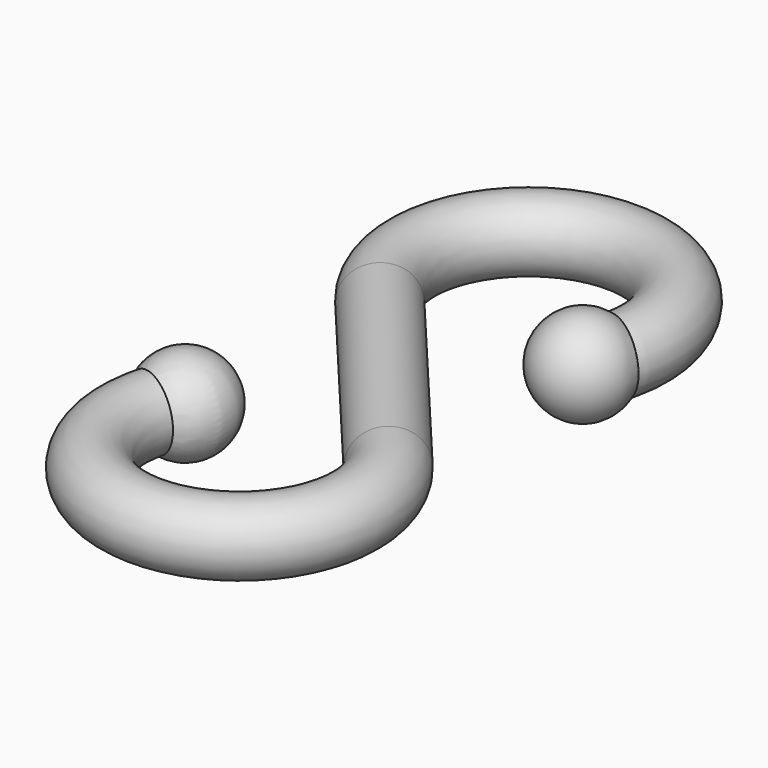
from build123d import *

# Parameters (mm, degrees)
F2_R = 3


with BuildPart() as f3:
    # F3: sweep along a path in F0
    with BuildLine(Plane.XY) as f3_path:
        ThreePointArc((8.6602540378, 10.5572382686), (-0.8715574275, 25.5191852495), (-7.6604444312, 9.1293621717))
        Line((-7.6604444312, 9.1293621717), (0, 0))
        Line((0, 0), (7.6604444312, -9.1293621717))
        ThreePointArc((7.6604444312, -9.1293621717), (0.8715574275, -25.5191852495), (-8.6602540378, -10.5572382686))
    # F2 (on line) → F3 (sweep)
    with BuildSketch(Plane(origin=(6.7364817767, 11.6679287015, 0), x_dir=(-0.8660254038, 0.5, 0), z_dir=(0.5, 0.8660254038, 0))):
        with Locations((-2.2213808657, 0)):
            Circle(F2_R)
    sweep(path=f3_path.line)

    # F4 (on face) → F5 (revolve)
    with BuildSketch(Plane(origin=(6.7364817767, 11.6679287015, 0), x_dir=(0.8660254038, -0.5, 0), z_dir=(-0.5, -0.8660254038, 0))):
        with BuildLine():
            Line((2.2213808657, -4), (2.2213808657, 4))
            ThreePointArc((2.2213808657, 4), (-1.7786191343, 0), (2.2213808657, -4))
        make_face()
    revolve(axis=Axis((8.6602540378, 10.5572382686, 0), (0, 0, -1)))

    # F7 (on face) → F8 (revolve)
    with BuildSketch(Plane(origin=(-6.7364817767, -11.6679287015, 0), x_dir=(-0.8660254038, 0.5, 0), z_dir=(0.5, 0.8660254038, 0))):
        with BuildLine():
            Line((1.9626663896, -3.991624584), (2.4800953418, 3.991624584))
            ThreePointArc((2.4800953418, 3.991624584), (-1.7702437183, 0.2587144761), (1.9626663896, -3.991624584))
        make_face()
    revolve(axis=Axis((-8.6860772011, -10.5423292584, 0.4600528946), (-0.0560133272, 0.0323393095, 0.997906146)))


solid = f3.part
